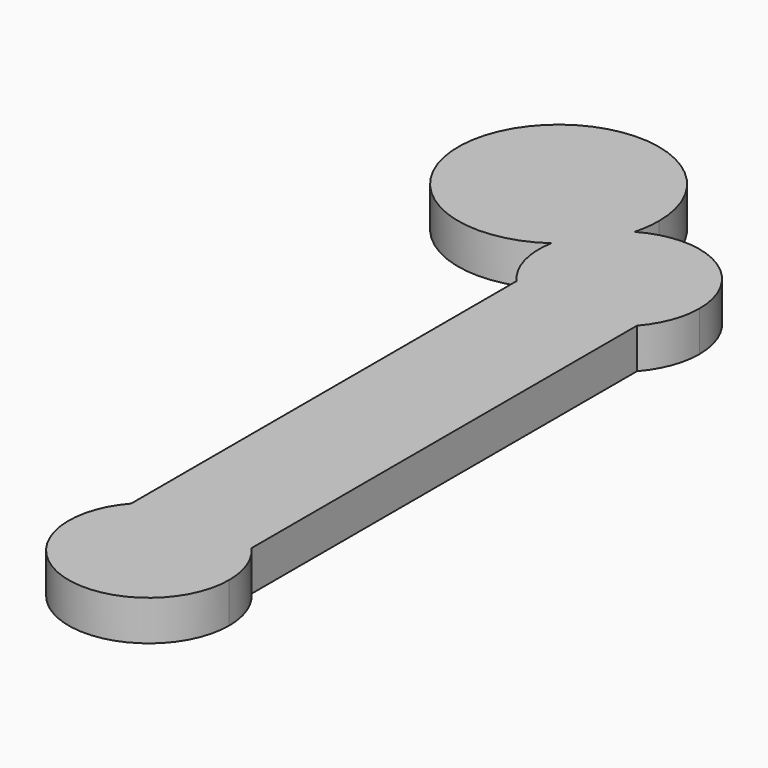
from build123d import *

# Parameters (mm, degrees)
F1_DEPTH = 3


with BuildPart() as f1:
    # F0 (on Top) → F1 (new body)
    with BuildSketch(Plane.XY):
        with BuildLine():
            Line((-16.5170838535, -14.1476472967), (-16.5170838535, -14.1050268357))
            ThreePointArc((-16.5170838535, -14.1050268357), (-14.138404197, -23.6861398824), (-6.0170838535, -18.0736538023))
            ThreePointArc((-6.0170838535, -18.0736538023), (-6.4045977733, -15.9523334587), (-7.5170838535, -14.1050268357))
            Line((-7.5170838535, -14.1050268357), (-7.5170838535, -14.1476472967))
            Line((-7.5170838535, -14.1476472967), (-16.5170838535, -14.1476472967))
        make_face()
        with BuildLine():
            ThreePointArc((-14.7707875073, 33.004000783), (-28.9352872741, 36.4441232892), (-17.9266389361, 26.8902152788))
            ThreePointArc((-17.9266389361, 26.8902152788), (-16.9383181933, 29.2847647667), (-15.0326458585, 31.0394892731))
            ThreePointArc((-15.0326458585, 31.0394892731), (-14.836540324, 32.0130573854), (-14.7707875073, 33.004000783))
        make_face()
        with BuildLine():
            Line((-16.5170838535, 21.8837257367), (-16.5170838535, 22.8523527033))
            Line((-16.5170838535, 22.8523527033), (-7.5170838535, 22.8523527033))
            Line((-7.5170838535, 22.8523527033), (-7.5170838535, 21.8837257367))
            ThreePointArc((-7.5170838535, 21.8837257367), (-6.4045977733, 23.7310323597), (-6.0170838535, 25.8523527033))
            ThreePointArc((-6.0170838535, 25.8523527033), (-9.0248749729, 31.0529955496), (-15.0326458585, 31.0394892731))
            ThreePointArc((-15.0326458585, 31.0394892731), (-16.1192445826, 28.7134857037), (-17.9266389361, 26.8902152788))
            ThreePointArc((-17.9266389361, 26.8902152788), (-17.7925443233, 24.2262972424), (-16.5170838535, 21.8837257367))
        make_face()
        with BuildLine():
            Line((-7.5170838535, 22.8523527033), (-16.5170838535, 22.8523527033))
            Line((-16.5170838535, 22.8523527033), (-16.5170838535, 21.8837257367))
            ThreePointArc((-16.5170838535, 21.8837257367), (-12.0170838535, 19.8523527033), (-7.5170838535, 21.8837257367))
            Line((-7.5170838535, 21.8837257367), (-7.5170838535, 22.8523527033))
        make_face()
        with BuildLine():
            ThreePointArc((-7.5170838535, 21.8837257367), (-12.0170838535, 19.8523527033), (-16.5170838535, 21.8837257367))
            Line((-16.5170838535, 21.8837257367), (-16.5170838535, -14.1050268357))
            ThreePointArc((-16.5170838535, -14.1050268357), (-12.0170838535, -12.0736538023), (-7.5170838535, -14.1050268357))
            Line((-7.5170838535, -14.1050268357), (-7.5170838535, 21.8837257367))
        make_face()
        with BuildLine():
            ThreePointArc((-7.5170838535, -14.1050268357), (-12.0170838535, -12.0736538023), (-16.5170838535, -14.1050268357))
            Line((-16.5170838535, -14.1050268357), (-16.5170838535, -14.1476472967))
            Line((-16.5170838535, -14.1476472967), (-7.5170838535, -14.1476472967))
            Line((-7.5170838535, -14.1476472967), (-7.5170838535, -14.1050268357))
        make_face()
        with BuildLine():
            ThreePointArc((-15.0326458585, 31.0394892731), (-16.9383181933, 29.2847647667), (-17.9266389361, 26.8902152788))
            ThreePointArc((-17.9266389361, 26.8902152788), (-16.1192445826, 28.7134857037), (-15.0326458585, 31.0394892731))
        make_face()
    extrude(amount=F1_DEPTH)


solid = f1.part
